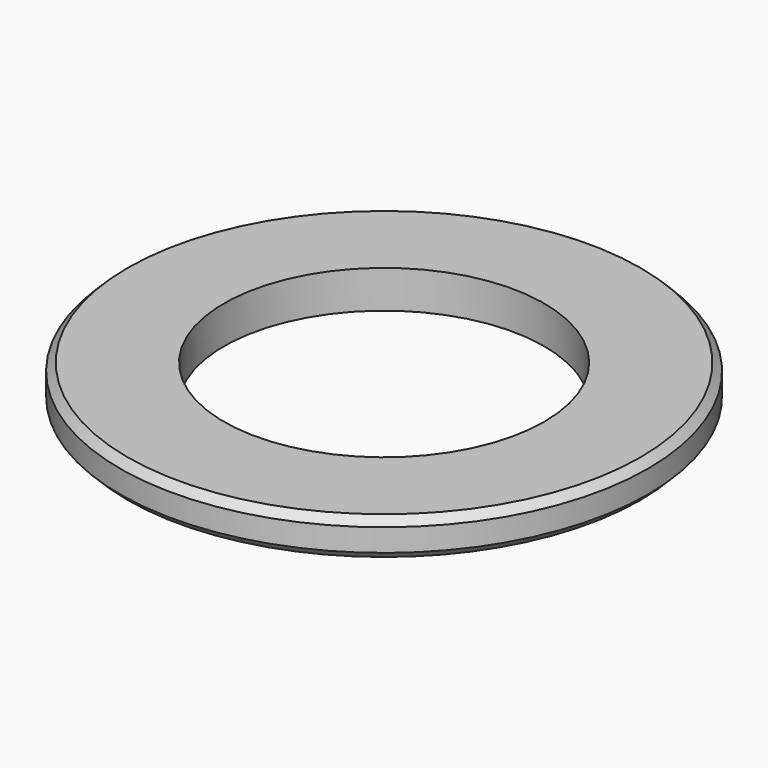
from build123d import *

# Parameters (mm, degrees)
F0_R     = 88.94259
F1_DEPTH = 12.7
F2_SIZE  = 2.54
F3_SIZE  = 2.54
F4_R     = 53.975015
F5_DEPTH = 50.8


with BuildPart() as f1:
    # F0 (on Top) → F1 (new body)
    with BuildSketch(Plane.XY):
        Circle(F0_R)
    extrude(amount=F1_DEPTH)

    # F2
    f2_edges = [f1.edges().sort_by_distance(p)[0] for p in [
        (-88.94259, 0, 12.7),
    ]]
    chamfer(f2_edges, length=F2_SIZE)

    # F3
    f3_edges = [f1.edges().sort_by_distance(p)[0] for p in [
        (-88.94259, 0, 0),
    ]]
    chamfer(f3_edges, length=F3_SIZE)

    # F4 (on Top) → F5 (cut)
    with BuildSketch(Plane.XY):
        Circle(F4_R)
    extrude(amount=F5_DEPTH, mode=Mode.SUBTRACT)


solid = f1.part
